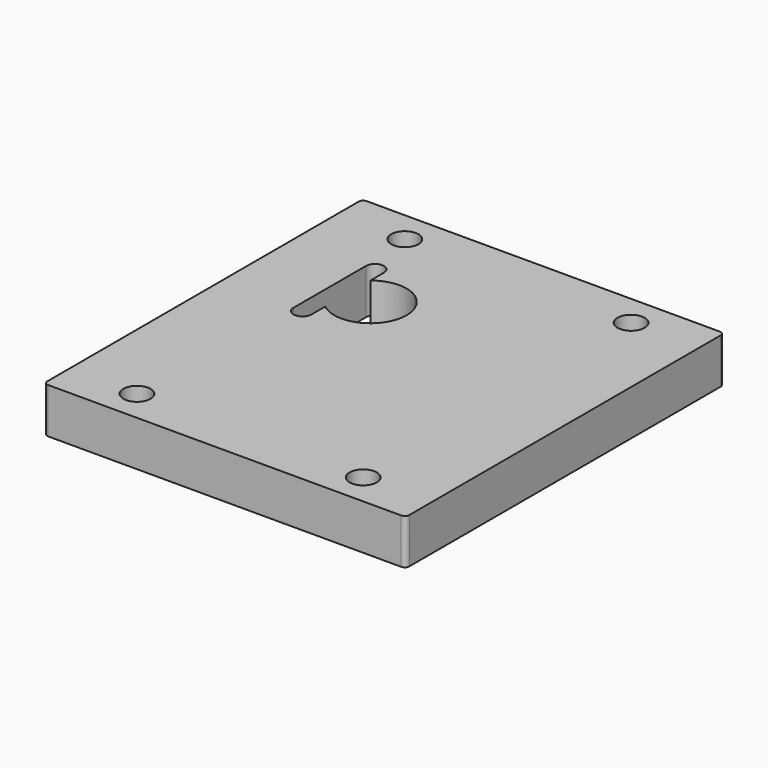
from build123d import *

# Parameters (mm, degrees)
SKETCH_W    = 80
SKETCH_H    = 88
SKETCH_R    = 3
PAD_DEPTH   = 10
FILLET_R    = 1
FILLET001_R = 1


with BuildPart() as part:
    # Sketch → Pad (new body)
    with BuildSketch(Plane.XY):
        with Locations((15, -15)):
            Rectangle(SKETCH_W, SKETCH_H)
        with Locations((-10, -52)):
            Circle(SKETCH_R, mode=Mode.SUBTRACT)
        with Locations((40, -52)):
            Circle(SKETCH_R, mode=Mode.SUBTRACT)
        with Locations((40, 22)):
            Circle(SKETCH_R, mode=Mode.SUBTRACT)
        with Locations((-10, 22)):
            Circle(SKETCH_R, mode=Mode.SUBTRACT)
        with BuildLine():
            ThreePointArc((-5, -6.244998), (8, 0), (-5, 6.244998))
            Line((-5, 6.244998), (-5, 10))
            ThreePointArc((-5, 10), (-7, 12), (-9, 10))
            Line((-9, 10), (-9, -10))
            ThreePointArc((-9, -10), (-7, -12), (-5, -10))
            Line((-5, -6.244998), (-5, -10))
        make_face(mode=Mode.SUBTRACT)
    extrude(amount=PAD_DEPTH)

    # Fillet
    fillet_edges = [part.edges().sort_by_distance(p)[0] for p in [
        (-25, -59, 5),
        (-25, 29, 5),
    ]]
    fillet(fillet_edges, radius=FILLET_R)

    # Fillet001
    fillet001_edges = [part.edges().sort_by_distance(p)[0] for p in [
        (55, -59, 5),
        (55, 29, 5),
    ]]
    fillet(fillet001_edges, radius=FILLET001_R)


solid = part.part
